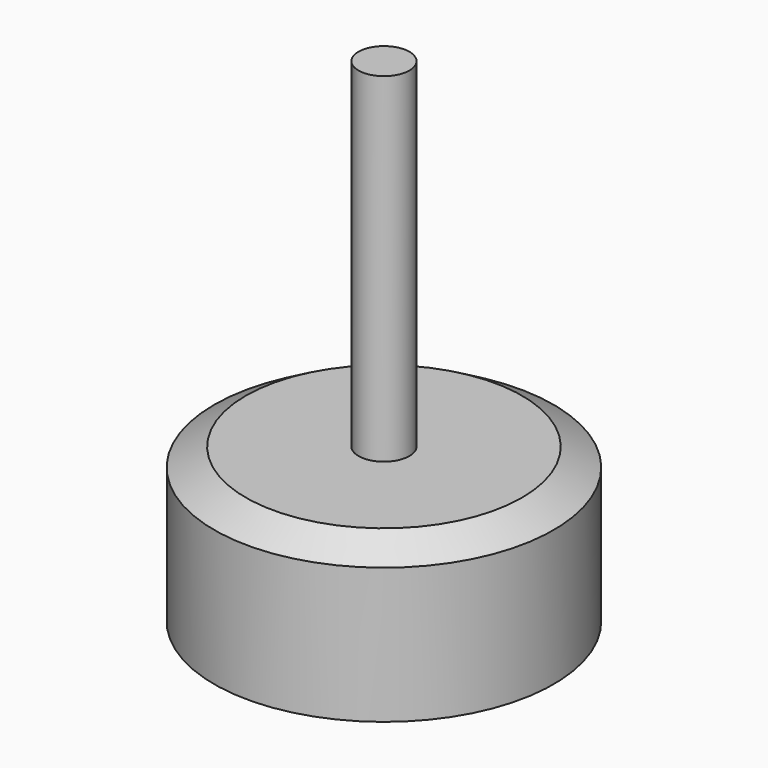
from build123d import *

# Parameters (mm, degrees)
F0_W   = 1.5
F0_H   = 20
F0_H_2 = 3
F0_H_3 = 1.0746234533


with BuildPart() as f1:
    # F0 (on Front) → F1 (revolve)
    with BuildSketch(Plane.XZ):
        with Locations((-21.3013077103, 19.0746234533)):
            Rectangle(F0_W, F0_H)
        Polygon((-22.0513077103, 8), (-30.5513077103, 8), (-30.5513077103, 0), (-22.0513077103, 0), (-22.0513077103, 5), align=None)
        Polygon((-28.6900052902, 9.0746234533), (-30.5513077103, 8), (-22.0513077103, 8), (-22.0513077103, 9.0746234533), align=None)
        with Locations((-21.3013077103, 6.5)):
            Rectangle(F0_W, F0_H_2)
        with Locations((-21.3013077103, 8.5373117267)):
            Rectangle(F0_W, F0_H_3)
    revolve(axis=Axis((-20.5513077103, 0, 19.0746234533), (0, 0, 1)))


solid = f1.part
